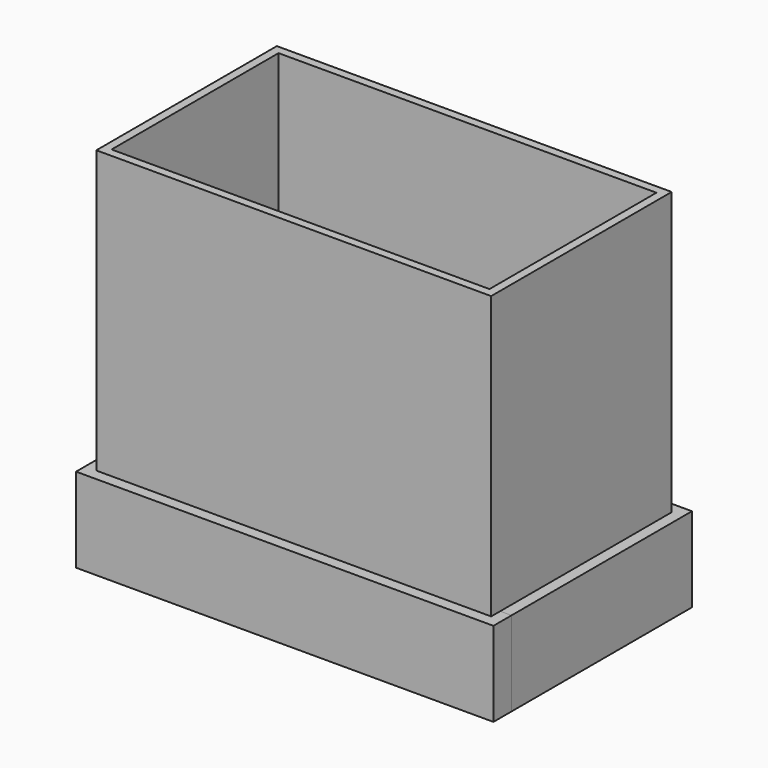
from build123d import *

# Parameters (mm, degrees)
F0_W      = 700
F0_H      = 400
F1_DEPTH  = 500
F2_W      = 670
F2_H      = 370
F3_DEPTH  = 480
F5_DEPTH  = 150
F6_DEPTH  = 150
F7_DEPTH  = 150
F4_W      = 660
F4_H      = 20
F8_DEPTH  = 40
F9_R      = 20
F10_DEPTH = 170.001
F14_R     = 20


with BuildPart() as f1:
    # F0 (on Top) → F1 (new body)
    with BuildSketch(Plane.XY):
        with Locations((-10.4999998584, -32.6372176104)):
            Rectangle(F0_W, F0_H)
    extrude(amount=F1_DEPTH)

    # F2 (on face) → F3 (cut)
    with BuildSketch(Plane.XY.offset(500)):
        with Locations((-10.4999998584, -32.6372176104)):
            Rectangle(F2_W, F2_H)
    extrude(amount=-F3_DEPTH, mode=Mode.SUBTRACT)

    # F9 (on face) → F10 (cut, through all)
    with BuildSketch(Plane.XY.offset(20)):
        with Locations((-205.2306979895, -32.6372176104)):
            Circle(F9_R)
        with Locations((155.9542268515, -32.6372176104)):
            Circle(F9_R)
    extrude(amount=-F10_DEPTH, mode=Mode.SUBTRACT)


with BuildPart() as f5:
    # F4 (on face) → F5 (new body)
    with BuildSketch(Plane(origin=(0, 0, 0), x_dir=(1, 0, 0), z_dir=(0, 0, -1))):
        Polygon((-360.4999998584, 212.6372176104), (-380.4999998584, 212.6372176104), (-380.4999998584, -187.3627823896), (-340.4999998584, -187.3627823896), (-340.4999998584, -167.3627823896), (-360.4999998584, -167.3627823896), align=None)
        Polygon((-340.4999998584, 212.6372176104), (-360.4999998584, 212.6372176104), (-360.4999998584, -167.3627823896), (-340.4999998584, -167.3627823896), (-340.4999998584, -147.3627823896), align=None)
    extrude(amount=F5_DEPTH)


with BuildPart() as f6:
    # F4 (on face) → F6 (new body)
    with BuildSketch(Plane(origin=(0, 0, 0), x_dir=(1, 0, 0), z_dir=(0, 0, -1))):
        Polygon((359.5000001416, 252.6372176104), (-380.4999998584, 252.6372176104), (-380.4999998584, 212.6372176104), (-360.4999998584, 212.6372176104), (-360.4999998584, 232.6372176104), (339.5000001416, 232.6372176104), (339.5000001416, 212.6372176104), (359.5000001416, 212.6372176104), align=None)
        Polygon((-360.4999998584, 232.6372176104), (-360.4999998584, 212.6372176104), (-340.4999998584, 212.6372176104), (319.5000001416, 212.6372176104), (339.5000001416, 212.6372176104), (339.5000001416, 232.6372176104), align=None)
    extrude(amount=F6_DEPTH)


with BuildPart() as f7:
    # F4 (on face) → F7 (new body)
    with BuildSketch(Plane(origin=(0, 0, 0), x_dir=(1, 0, 0), z_dir=(0, 0, -1))):
        Polygon((359.5000001416, -187.3627823896), (359.5000001416, 212.6372176104), (339.5000001416, 212.6372176104), (339.5000001416, -167.3627823896), (319.5000001416, -167.3627823896), (319.5000001416, -187.3627823896), align=None)
        Polygon((339.5000001416, -167.3627823896), (339.5000001416, 212.6372176104), (319.5000001416, 212.6372176104), (319.5000001416, -147.3627823896), (319.5000001416, -167.3627823896), align=None)
    extrude(amount=F7_DEPTH)


with BuildPart() as f8:
    # F4 (on face) → F8 (new body)
    with BuildSketch(Plane(origin=(0, 0, 0), x_dir=(1, 0, 0), z_dir=(0, 0, -1))):
        with Locations((-10.4999998584, -177.3627823896)):
            Rectangle(F4_W, F4_H)
        with Locations((-10.4999998584, -157.3627823896)):
            Rectangle(F4_W, F4_H)
    extrude(amount=F8_DEPTH)


with BuildPart() as f13:
    # F13: sweep along a path in F12
    with BuildLine(Plane.XZ.offset(32.6372176104)) as f13_path:
        ThreePointArc((155.9542268515, 20), (144.2384980989, 48.2842712475), (115.9542268515, 60))
    # F9 (on face) → F13 (sweep)
    with BuildSketch(Plane.XY.offset(20)):
        with Locations((155.9542268515, -32.6372176104)):
            Circle(F9_R)
    sweep(path=f13_path.line)


with BuildPart() as f15:
    # F15: sweep along a path in F12
    with BuildLine(Plane.XZ.offset(32.6372176104)) as f15_path:
        Line((155.9542268515, 0), (155.9542268515, -50))
        ThreePointArc((155.9542268515, -50), (167.669955604, -78.2842712475), (195.9542268515, -90))
    # F14 (on face) → F15 (sweep)
    with BuildSketch(Plane(origin=(0, 0, 0), x_dir=(1, 0, 0), z_dir=(0, 0, -1))):
        with Locations((155.9542268515, 32.6372176104)):
            Circle(F14_R)
    sweep(path=f15_path.line)


solid = Compound([f1.part, f5.part, f6.part, f7.part, f8.part, f13.part, f15.part])
